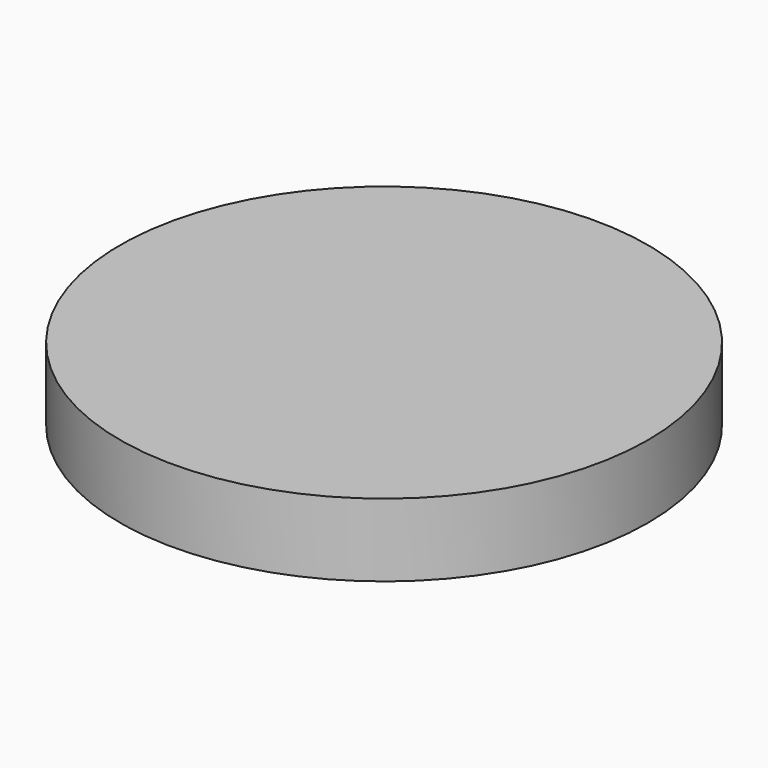
from build123d import *

# Parameters (mm, degrees)
SKETCH002_R        = 36.208774
PAD001_DEPTH       = 10
POCKET001_DEPTH    = 3
POCKET002_DEPTH    = 2
POLARPATTERN_COUNT = 2


with BuildPart() as part:
    # Sketch002 → Pad001 (new body)
    with BuildSketch(Plane.XY):
        Circle(SKETCH002_R)
    extrude(amount=PAD001_DEPTH)

    # Sketch003 (on Face2 of Pad001) → Pocket001 (cut)
    with BuildSketch(Plane(origin=(0, 0, 0), x_dir=(1, 0, 0), z_dir=(0, 0, -1))):
        with BuildLine():
            ThreePointArc((2.048306, 31.433333), (-2.49861, 30.083359), (1.948219, 28.433333))
            ThreePointArc((5.438051, 27.976376), (3.700196, 28.258778), (1.948219, 28.433333))
            ThreePointArc((5.438051, 27.976376), (7.19671, 29.1626), (6.010482, 30.921256))
            ThreePointArc((6.010482, 30.921256), (4.03752, 31.240173), (2.048306, 31.433333))
        make_face()
    pocket001 = extrude(amount=-POCKET001_DEPTH, mode=Mode.SUBTRACT)

    # Sketch004 (on Face2 of Pocket001) → Pocket002 (cut)
    with BuildSketch(Plane(origin=(0, 0, 1.5), x_dir=(1, 0, 0), z_dir=(0, 0, -1))):
        with BuildLine():
            ThreePointArc((0.239614, 32.48849), (-2.48849, 30.239614), (-0.239614, 27.51151))
            Line((-0.239614, 27.51151), (5.484655, 26.960325))
            ThreePointArc((5.484655, 26.960325), (8.21276, 29.209201), (5.963884, 31.937306))
            Line((5.963884, 31.937306), (0.239614, 32.48849))
        make_face()
    pocket002 = extrude(amount=-POCKET002_DEPTH, mode=Mode.SUBTRACT)

    # PolarPattern: Pocket001, Pocket002 ×2 about axis
    polarpattern_axis = Axis((0, 0, 0), (0, 0, -1))
    for i in range(1, POLARPATTERN_COUNT):
        add(pocket001.rotate(polarpattern_axis, i * 360 / POLARPATTERN_COUNT), mode=Mode.SUBTRACT)
        add(pocket002.rotate(polarpattern_axis, i * 360 / POLARPATTERN_COUNT), mode=Mode.SUBTRACT)


solid = part.part
